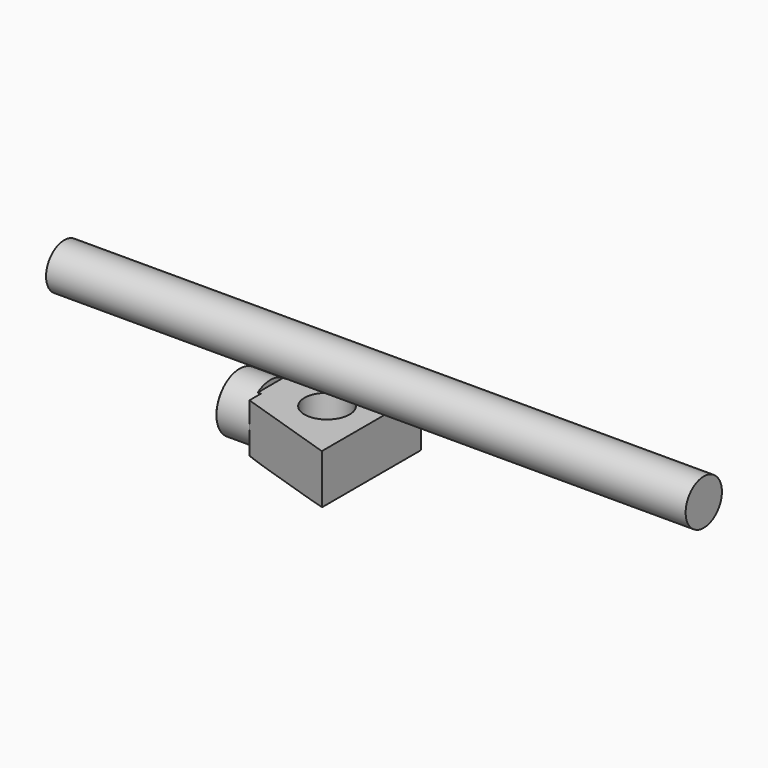
from build123d import *

# Parameters (mm, degrees)
F0_R      = 6.0311238877
F1_DEPTH  = 170
F4_R      = 17.6901582165
F2_R      = 7.7272221814
F6_W      = 26.8814461306
F6_H      = 17.3603072762
F6_H_2    = 16.4670161903
F7_DEPTH  = 100
F8_R      = 11.5624340414
F8_R_2    = 7.7321638207
F9_DEPTH  = 9
F11_DEPTH = 25
F12_R     = 6.0002626076
F13_DEPTH = 25
F14_R     = 6.3310913438
F15_DEPTH = 15


with BuildPart() as f1:
    # F0 (on Right) → F1 (new body)
    with BuildSketch(Plane.YZ):
        Circle(F0_R)
    extrude(amount=F1_DEPTH)


with BuildPart() as f5:
    # F4 (on offset) → F5 section 0
    with BuildSketch(Plane.YZ.offset(35)):
        with Locations((58.296225965, -55.4610416293)):
            Circle(F4_R)
    # F2 (on Right) → F5 section 1
    with BuildSketch(Plane.YZ):
        with Locations((58.296225965, -55.4610416293)):
            Circle(F2_R)
    loft()

    # F6 (on Front) → F7 (cut)
    with BuildSketch(Plane.XZ):
        with Locations((21.6108239256, -70.8322189748)):
            Rectangle(F6_W, F6_H)
        with Locations((21.6108239256, -40.7484527677)):
            Rectangle(F6_W, F6_H_2)
    extrude(amount=-F7_DEPTH, mode=Mode.SUBTRACT)

    # F8 (on face) → F9 (cut)
    with BuildSketch(Plane(origin=(0, 0, 0), x_dir=(0, -1, 0), z_dir=(-1, 0, 0))):
        with Locations((-58.296225965, -55.4610416293)):
            Circle(F8_R)
        with Locations((-58.296225965, -55.4610416293)):
            Circle(F8_R_2, mode=Mode.SUBTRACT)
    extrude(amount=-F9_DEPTH, mode=Mode.SUBTRACT)

    # F10 (on face) → F11 (cut)
    with BuildSketch(Plane.XY.offset(-48.9819608629)):
        Polygon((9, 69.8061585426), (9, 66.2891918217), (35, 74.757186148), (35, 77.7765586972), align=None)
        Polygon((35, 41.835265782), (9, 50.3032601083), (9, 46.1107976735), (35, 38.4149104357), align=None)
    extrude(amount=-F11_DEPTH, mode=Mode.SUBTRACT)

    # F12 (on face) → F13 (cut)
    with BuildSketch(Plane(origin=(0, 0, -62.1520653367), x_dir=(1, 0, 0), z_dir=(0, 0, -1))):
        with Locations((23.2215356082, -58.296225965)):
            Circle(F12_R)
    extrude(amount=-F13_DEPTH, mode=Mode.SUBTRACT)

    # F14 (on face) → F15 (cut)
    with BuildSketch(Plane(origin=(0, 0, 0), x_dir=(0, -1, 0), z_dir=(-1, 0, 0))):
        with Locations((-58.296225965, -55.4610416293)):
            Circle(F14_R)
    extrude(amount=-F15_DEPTH, mode=Mode.SUBTRACT)


solid = Compound([f1.part, f5.part])
